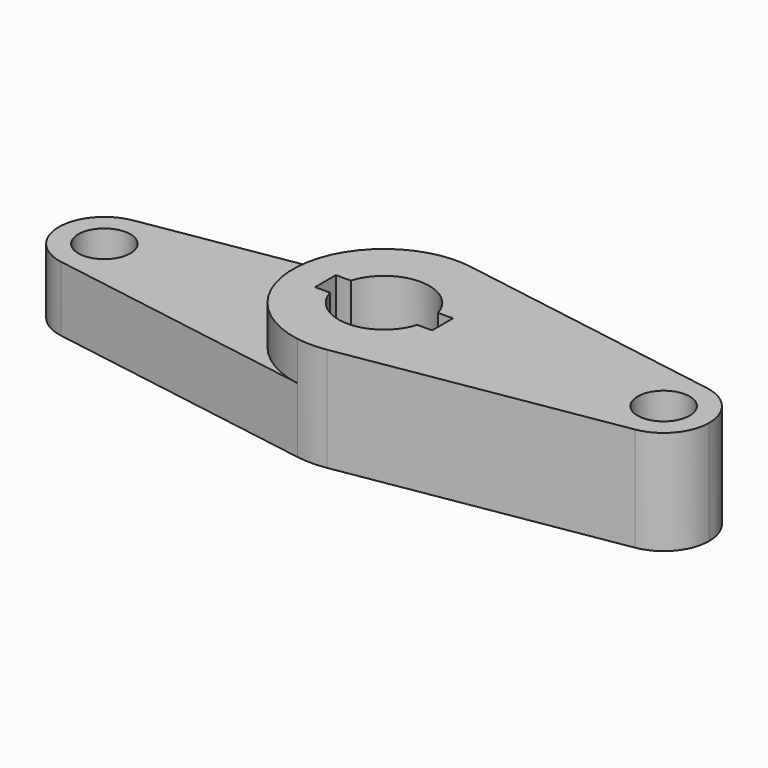
from build123d import *

# Parameters (mm, degrees)
F0_R     = 10
F1_DEPTH = 40
F2_DEPTH = 25


with BuildPart() as f1:
    # F0 (on Top) → F1 (new body)
    with BuildSketch(Plane.XY):
        with BuildLine():
            ThreePointArc((5.697674, 34.533122), (26.68725, 22.644882), (35, 0))
            ThreePointArc((35, 0), (26.68725, -22.644882), (5.697674, -34.533122))
            Line((5.697674, -34.533122), (110.348837, -17.266561))
            ThreePointArc((110.348837, -17.266561), (90, 0), (110.348837, 17.266561))
            Line((110.348837, 17.266561), (5.697674, 34.533122))
        make_face()
        with BuildLine():
            ThreePointArc((5.697674, -34.533122), (26.68725, -22.644882), (35, 0))
            ThreePointArc((35, 0), (26.68725, 22.644882), (5.697674, 34.533122))
            ThreePointArc((5.697674, 34.533122), (0, 35), (-5.697674, 34.533122))
            ThreePointArc((-5.697674, 34.533122), (-35, 0), (-5.697674, -34.533122))
            ThreePointArc((-5.697674, -34.533122), (0, -35), (5.697674, -34.533122))
        make_face()
        with BuildLine():
            ThreePointArc((-16.77051, 5), (0, 17.5), (16.77051, 5))
            Line((16.77051, 5), (22.5, 5))
            Line((22.5, 5), (22.5, -5))
            Line((22.5, -5), (16.77051, -5))
            ThreePointArc((16.77051, -5), (0, -17.5), (-16.77051, -5))
            Line((-16.77051, -5), (-22.5, -5))
            Line((-22.5, -5), (-22.5, 5))
            Line((-22.5, 5), (-16.77051, 5))
        make_face(mode=Mode.SUBTRACT)
        with BuildLine():
            ThreePointArc((125, 0), (120.843625, 11.322441), (110.348837, 17.266561))
            ThreePointArc((110.348837, 17.266561), (90, 0), (110.348837, -17.266561))
            ThreePointArc((110.348837, -17.266561), (120.843625, -11.322441), (125, 0))
        make_face()
        with Locations((107.5, 0)):
            Circle(F0_R, mode=Mode.SUBTRACT)
    extrude(amount=F1_DEPTH)

    # F0 (on Top) → F2 (join)
    with BuildSketch(Plane.XY):
        with BuildLine():
            ThreePointArc((-5.697674, -34.533122), (-35, 0), (-5.697674, 34.533122))
            Line((-5.697674, 34.533122), (-110.348837, 17.266561))
            ThreePointArc((-110.348837, 17.266561), (-96.177559, 13.343625), (-90, 0))
            ThreePointArc((-90, 0), (-96.177559, -13.343625), (-110.348837, -17.266561))
            Line((-110.348837, -17.266561), (-5.697674, -34.533122))
        make_face()
        with BuildLine():
            ThreePointArc((-90, 0), (-96.177559, 13.343625), (-110.348837, 17.266561))
            ThreePointArc((-110.348837, 17.266561), (-125, 0), (-110.348837, -17.266561))
            ThreePointArc((-110.348837, -17.266561), (-96.177559, -13.343625), (-90, 0))
        make_face()
        with Locations((-107.5, 0)):
            Circle(F0_R, mode=Mode.SUBTRACT)
    extrude(amount=F2_DEPTH)


solid = f1.part
